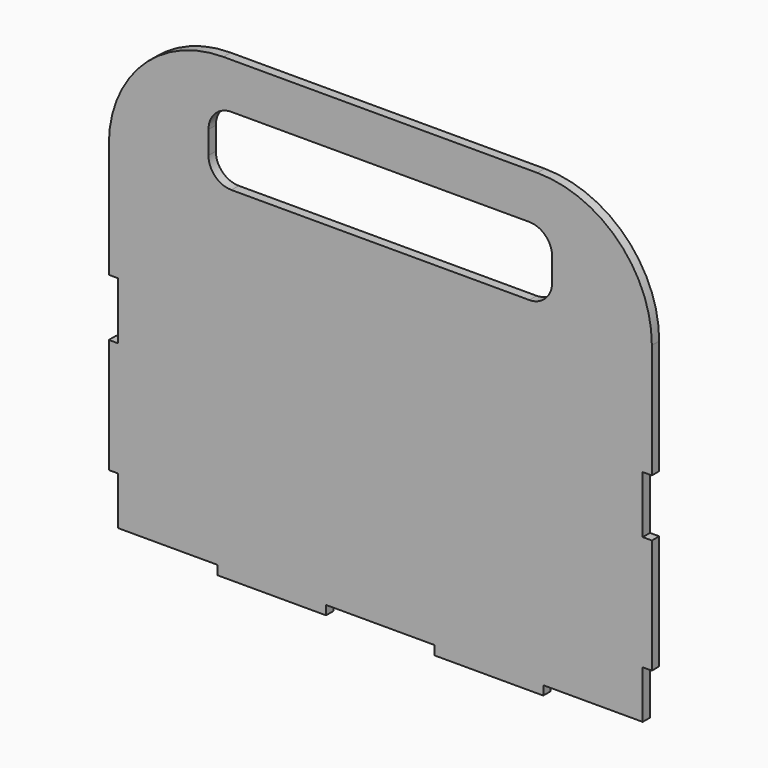
from build123d import *

# Parameters (mm, degrees)
F1_DEPTH = 4
F2_W     = 47.4
F2_H     = 4
F2_W_2   = 4
F2_H_2   = 21
F2_H_3   = 25
F3_DEPTH = 4
F5_DEPTH = 4


with BuildPart() as f1:
    # F0 (on Front) → F1 (new body)
    with BuildSketch(Plane.XZ):
        with BuildLine():
            Line((0, 150), (0, 0))
            Line((0, 0), (237, 0))
            Line((237, 0), (237, 150))
            ThreePointArc((237, 150), (222.355339, 185.355339), (187, 200))
            Line((187, 200), (50, 200))
            ThreePointArc((50, 200), (14.644661, 185.355339), (0, 150))
        make_face()
    extrude(amount=F1_DEPTH)

    # F2 (on face) → F3 (cut, through all)
    with BuildSketch(Plane.XZ.offset(4)):
        Polygon((0, 4), (0, 0), (47.4, 0), (47.4, 4), (4, 4), align=None)
        Polygon((189.6, 4), (189.6, 0), (237, 0), (237, 4), (233, 4), align=None)
        with Locations((118.5, 2)):
            Rectangle(F2_W, F2_H)
        with Locations((2, 14.5)):
            Rectangle(F2_W_2, F2_H_2)
        with Locations((235, 14.5)):
            Rectangle(F2_W_2, F2_H_2)
        with Locations((2, 87.5)):
            Rectangle(F2_W_2, F2_H_3)
        with Locations((235, 87.5)):
            Rectangle(F2_W_2, F2_H_3)
    extrude(amount=-F3_DEPTH, mode=Mode.SUBTRACT)

    # F4 (on face) → F5 (cut, through all)
    with BuildSketch(Plane.XZ.offset(4)):
        with BuildLine():
            Line((183.5, 180), (53.5, 180))
            ThreePointArc((53.5, 180), (46.428932, 177.071068), (43.5, 170))
            Line((43.5, 170), (43.5, 160))
            ThreePointArc((43.5, 160), (46.428932, 152.928932), (53.5, 150))
            Line((53.5, 150), (183.5, 150))
            ThreePointArc((183.5, 150), (190.571068, 152.928932), (193.5, 160))
            Line((193.5, 160), (193.5, 170))
            ThreePointArc((193.5, 170), (190.571068, 177.071068), (183.5, 180))
        make_face()
    extrude(amount=-F5_DEPTH, mode=Mode.SUBTRACT)


solid = f1.part
